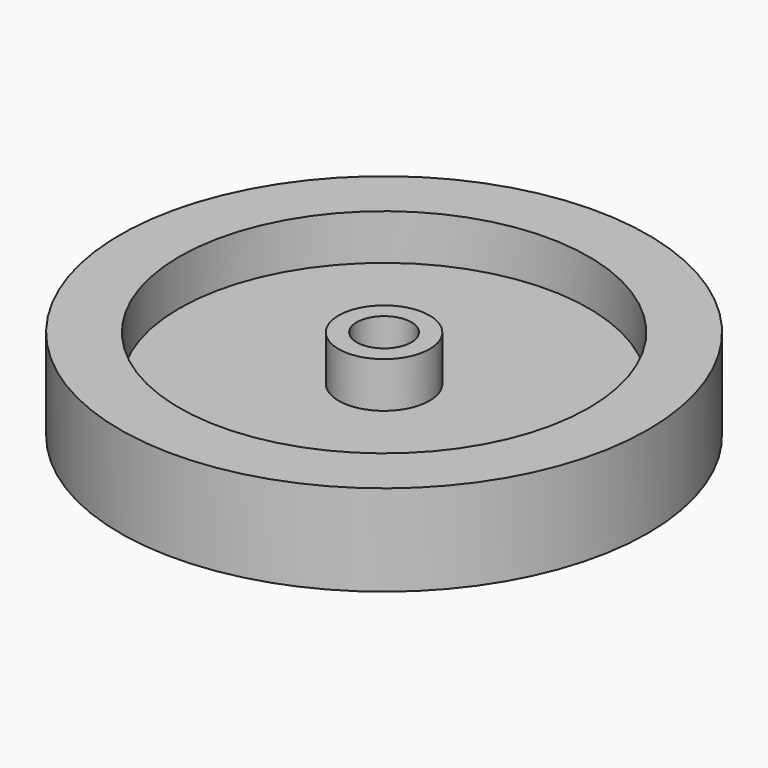
from build123d import *

# Parameters (mm, degrees)
F0_R     = 29
F0_R_2   = 22.5
F0_R_3   = 5
F0_R_4   = 3
F1_DEPTH = 5
F2_DEPTH = 10


with BuildPart() as f1:
    # F0 (on Top) → F1 (new body)
    with BuildSketch(Plane.XY):
        Circle(F0_R)
        Circle(F0_R_2, mode=Mode.SUBTRACT)
        Circle(F0_R_2)
        Circle(F0_R_3, mode=Mode.SUBTRACT)
        Circle(F0_R_3)
        Circle(F0_R_4, mode=Mode.SUBTRACT)
        Circle(F0_R_4)
    extrude(amount=F1_DEPTH)

    # F0 (on Top) → F2 (join)
    with BuildSketch(Plane.XY):
        Circle(F0_R)
        Circle(F0_R_2, mode=Mode.SUBTRACT)
        Circle(F0_R_3)
        Circle(F0_R_4, mode=Mode.SUBTRACT)
    extrude(amount=F2_DEPTH)


solid = f1.part
